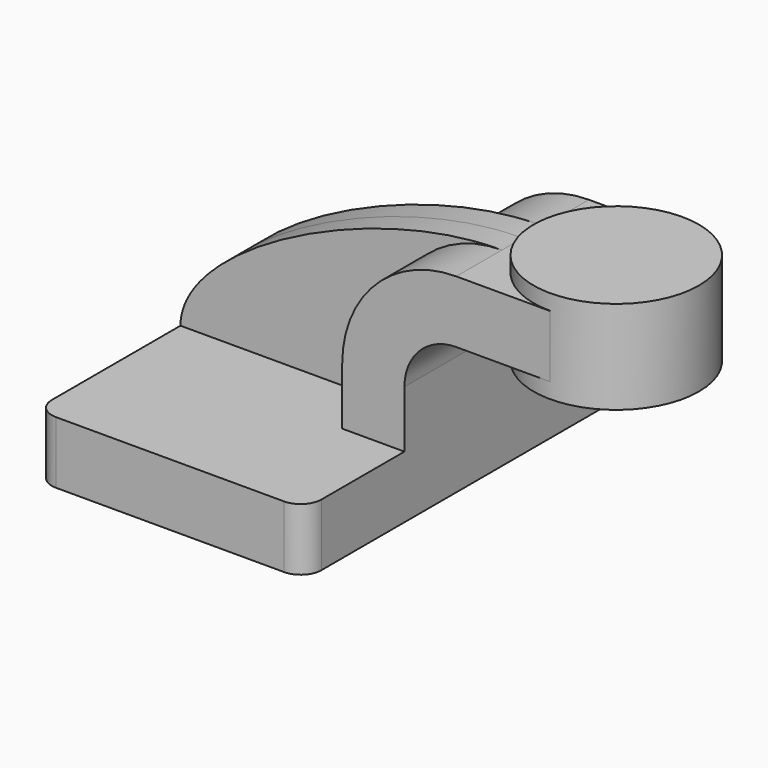
from build123d import *

# Parameters (mm, degrees)
F1_DEPTH = 63.5
F0_W     = 25.4964783202
F0_H     = 19.05
F2_DEPTH = 25.4
F3_DEPTH = 7.9375
F4_DEPTH = 25.4
F6_R     = 6.35


with BuildPart() as f1:
    # F0 (on Front) → F1 (new body, symmetric)
    with BuildSketch(Plane.XZ):
        Polygon((-41.275, -9.525), (41.275, -9.525), (41.275, 9.525), (22.225, 9.525), (-41.275, 9.525), align=None)
    extrude(amount=F1_DEPTH, both=True)

    # F0 (on Front) → F2 (join, symmetric)
    with BuildSketch(Plane.XZ):
        with BuildLine():
            Line((22.225, 9.525), (41.275, 9.525))
            Line((41.275, 9.525), (41.275, 27.0002))
            ThreePointArc((41.275, 27.0002), (45.9246798487, 38.2255201513), (57.15, 42.8752))
            Line((57.15, 42.8752), (60.325, 42.8752))
            Line((60.325, 42.8752), (60.325, 61.9252))
            Line((60.325, 61.9252), (57.15, 61.9252))
            ThreePointArc((57.15, 61.9252), (32.4542956671, 51.6959043329), (22.225, 27.0002))
            Line((22.225, 27.0002), (22.225, 9.525))
        make_face()
        with Locations((73.0732391601, 52.4002)):
            Rectangle(F0_W, F0_H)
    extrude(amount=F2_DEPTH, both=True)

    # F0 (on Front) → F3 (join, symmetric)
    with BuildSketch(Plane.XZ):
        with BuildLine():
            add(Edge.make_bspline(
                [(-41.275, 9.525), (-41.1518029869, 33.0162532628), (17.5662990659, 62.1782578528), (57.15, 61.9252)],
                knots=[0, 0, 0, 0, 111.5045361635, 111.5045361635, 111.5045361635, 111.5045361635], degree=3))
            Line((-41.275, 9.525), (22.225, 9.525))
            Line((22.225, 9.525), (22.225, 27.0002))
            ThreePointArc((22.225, 27.0002), (32.4542956671, 51.6959043329), (57.15, 61.9252))
        make_face()
    extrude(amount=F3_DEPTH, both=True)

    # F0 (on Front) → F4 (join)
    with BuildSketch(Plane.XZ):
        Polygon((-41.275, -9.525), (41.275, -9.525), (41.275, 9.525), (22.225, 9.525), (-41.275, 9.525), align=None)
    extrude(amount=F4_DEPTH)

    # F0 (on Front) → F5 (revolve)
    with BuildSketch(Plane.XZ):
        Polygon((85.8214783202, 66.675), (85.8214783202, 61.9252), (85.8214783202, 42.8752), (85.8214783202, 38.1), (111.125, 38.1), (111.125, 66.675), align=None)
    revolve(axis=Axis((85.8214783202, 0, 52.3875), (0, 0, 1)))

    # F6
    f6_edges = [f1.edges().sort_by_distance(p)[0] for p in [
        (-41.275, -63.5, 0),
        (41.275, -63.5, 0),
        (-41.275, 63.5, 0),
        (41.275, 63.5, 0),
    ]]
    fillet(f6_edges, radius=F6_R)


solid = f1.part
